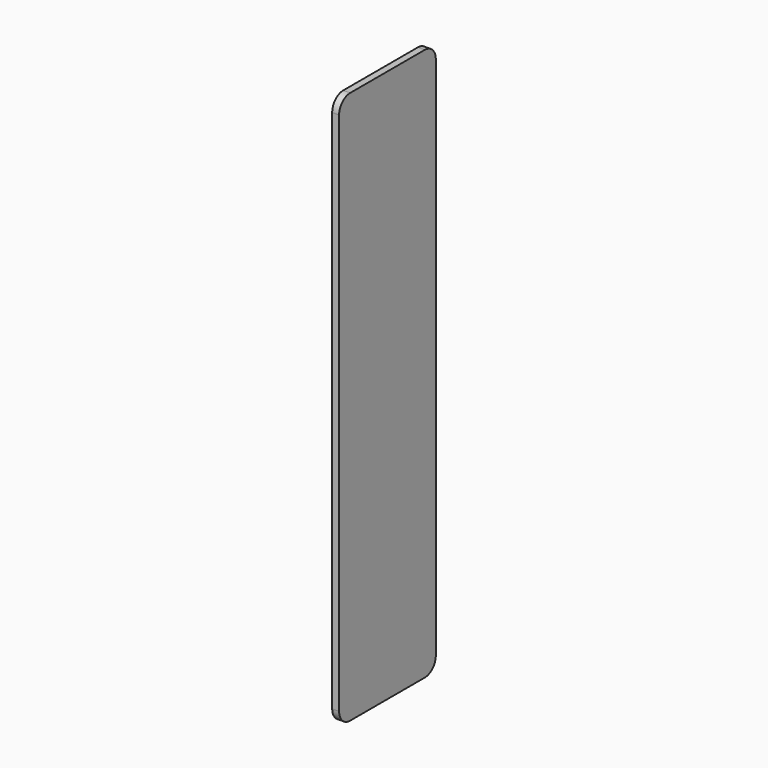
from build123d import *

# Parameters (mm, degrees)
F0_W     = 44.45
F0_H     = 203.2
F1_DEPTH = 2.54
F2_R     = 5.08
F3_R     = 1.27
F4_DEPTH = 2.54
F5_R     = 1.27
F6_R     = 1.27
F7_DEPTH = 2.54
F8_R     = 1.27


with BuildPart() as f1:
    # F0 (on Right) → F1 (new body)
    with BuildSketch(Plane.YZ):
        with Locations((32.198633, 1.147029)):
            Rectangle(F0_W, F0_H)
    extrude(amount=-F1_DEPTH)

    # F2
    f2_edges = [f1.edges().sort_by_distance(p)[0] for p in [
        (-1.27, 54.423633, 102.747029),
        (-1.27, 9.973633, 102.747029),
        (-1.27, 54.423633, -100.452971),
        (-1.27, 9.973633, -100.452971),
    ]]
    fillet(f2_edges, radius=F2_R)

    # F3 (on face) → F4 (join)
    with BuildSketch(Plane(origin=(-2.54, 0, 0), x_dir=(0, -1, 0), z_dir=(-1, 0, 0))):
        with Locations((-32.198633, 95.127029)):
            Circle(F3_R)
    extrude(amount=F4_DEPTH)

    # F5
    f5_edges = [f1.edges().sort_by_distance(p)[0] for p in [
        (-5.08, 33.468633, 95.127029),
    ]]
    fillet(f5_edges, radius=F5_R)

    # F6 (on face) → F7 (join)
    with BuildSketch(Plane(origin=(-2.54, 0, 0), x_dir=(0, -1, 0), z_dir=(-1, 0, 0))):
        with Locations((-32.198633, -92.832971)):
            Circle(F6_R)
    extrude(amount=F7_DEPTH)

    # F8
    f8_edges = [f1.edges().sort_by_distance(p)[0] for p in [
        (-5.08, 33.468633, -92.832971),
    ]]
    fillet(f8_edges, radius=F8_R)


solid = f1.part
